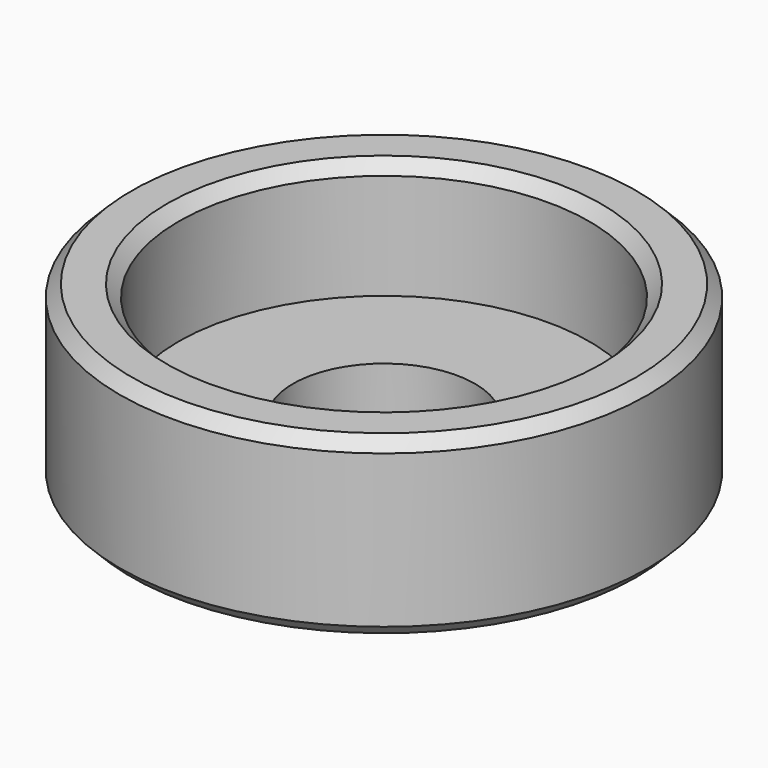
from build123d import *

# Parameters (mm, degrees)
CYLINDER004_R     = 3.1
CYLINDER004_DEPTH = 10
CYLINDER002_R     = 7
CYLINDER002_DEPTH = 6
CYLINDER003_R     = 9
CYLINDER003_DEPTH = 6
CHAMFER002_SIZE   = 0.4


with BuildPart() as cylinder004:
    # Cylinder004 → Cylinder004 (new body)
    with BuildSketch(Plane.XY):
        Circle(CYLINDER004_R)
    extrude(amount=CYLINDER004_DEPTH)


with BuildPart() as cylinder002:
    # Cylinder002 → Cylinder002 (new body)
    with BuildSketch(Plane.XY.offset(2)):
        Circle(CYLINDER002_R)
    extrude(amount=CYLINDER002_DEPTH)


with BuildPart() as chamfer002:
    # Cylinder003 → Cylinder003 (new body)
    with BuildSketch(Plane.XY):
        Circle(CYLINDER003_R)
    extrude(amount=CYLINDER003_DEPTH)

    # Cut004: cut Cylinder002
    add(cylinder002.part, mode=Mode.SUBTRACT)

    # Cut005: cut Cylinder004
    add(cylinder004.part, mode=Mode.SUBTRACT)

    # Chamfer002
    chamfer002_edges = [chamfer002.edges().sort_by_distance(p)[0] for p in [
        (-9, 0, 6),
        (-9, 0, 0),
        (-7, 0, 6),
    ]]
    chamfer(chamfer002_edges, length=CHAMFER002_SIZE)


solid = chamfer002.part
